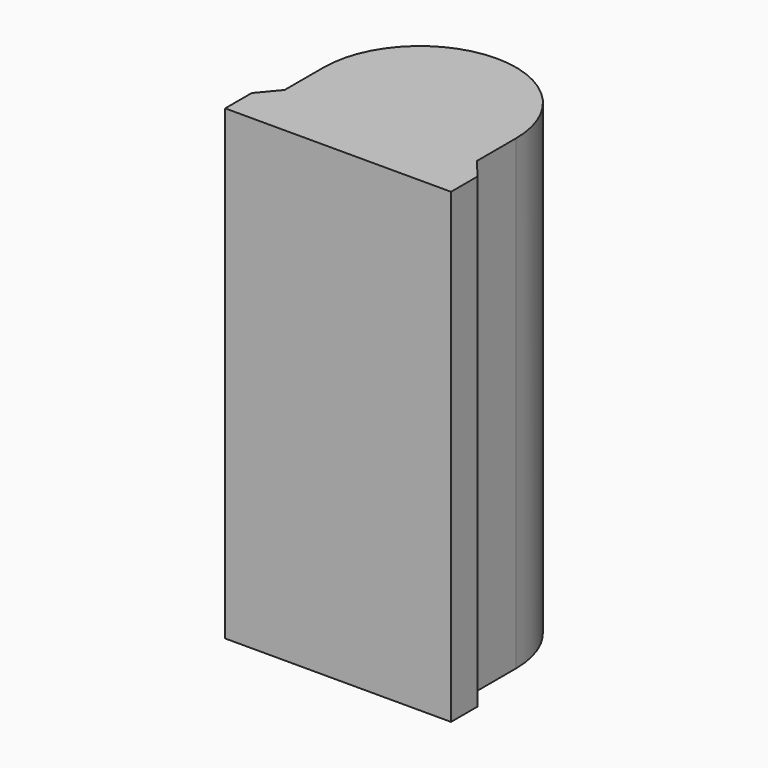
from build123d import *

# Parameters (mm, degrees)
PAD_DEPTH    = 6000
PAD001_DEPTH = 450
PAD002_DEPTH = 650


with BuildPart() as part:
    # Sketch → Pad (new body)
    with BuildSketch(Plane.XY):
        with BuildLine():
            ThreePointArc((1462, 0), (0, 1462), (-1462, 0))
            Line((-1462, 0), (-1462, -745))
            Line((-1462, -745), (-1718, -1051))
            Line((-1718, -1051), (-1718, -1556))
            Line((-1718, -1556), (1718, -1556))
            Line((1718, -1556), (1718, -1051))
            Line((1718, -1051), (1462, -745))
            Line((1462, -745), (1462, 0))
        make_face()
        with BuildLine():
            ThreePointArc((1012, 0), (0, 1012), (-1012, 0))
            Line((-1012, 0), (-1012, -1190))
            Line((-1012, -1190), (1012, -1190))
            Line((1012, -1190), (1012, 0))
        make_face(mode=Mode.SUBTRACT)
    extrude(amount=-PAD_DEPTH)

    # Sketch001 (on Face13 of Pad) → Pad001 (join)
    with BuildSketch(Plane.XY):
        with BuildLine():
            Line((-1462, 0), (-1462, -745))
            Line((-1462, -745), (-1718, -1051))
            Line((-1718, -1051), (-1718, -1556))
            Line((-1718, -1556), (1718, -1556))
            Line((1718, -1556), (1718, -1051))
            Line((1718, -1051), (1462, -745))
            Line((1462, -745), (1462, 0))
            ThreePointArc((1462, 0), (0, 1462), (-1462, 0))
        make_face()
    extrude(amount=PAD001_DEPTH)

    # Sketch002 (on Face1 of Pad001) → Pad002 (join)
    with BuildSketch(Plane(origin=(0, 0, -6000), x_dir=(1, 0, 0), z_dir=(0, 0, -1))):
        with BuildLine():
            Line((-1462, 0), (-1462, 745))
            Line((-1462, 745), (-1718, 1051))
            Line((-1718, 1051), (-1718, 1556))
            Line((-1718, 1556), (1718, 1556))
            Line((1718, 1556), (1718, 1051))
            Line((1718, 1051), (1462, 745))
            Line((1462, 745), (1462, 0))
            ThreePointArc((-1462, 0), (0, -1462), (1462, 0))
        make_face()
    extrude(amount=PAD002_DEPTH)


solid = part.part
